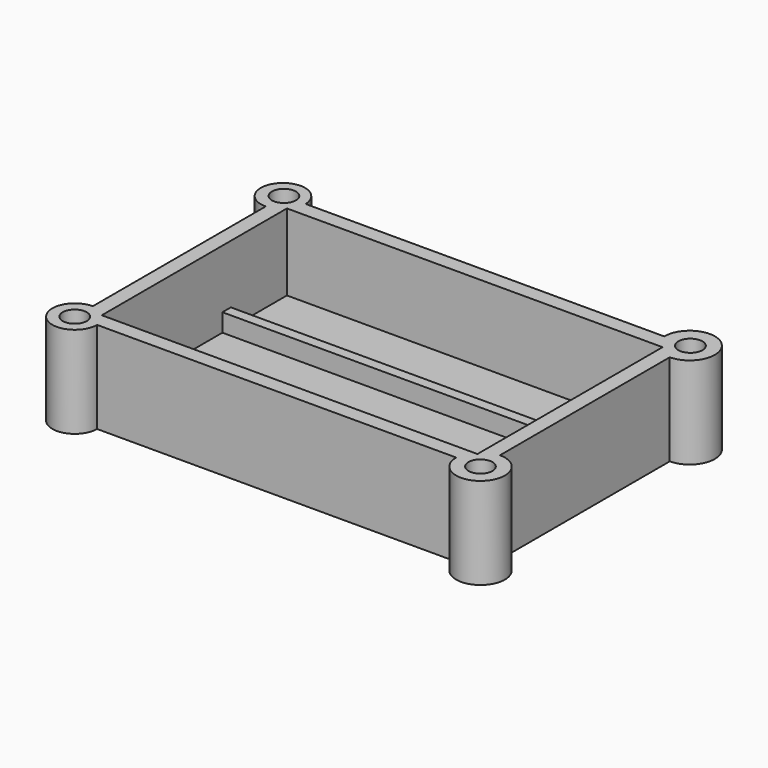
from build123d import *

# Parameters (mm, degrees)
F0_W     = 50
F0_H     = 1.4
F0_H_2   = 9.33334
F0_H_3   = 9.33333
F0_W_2   = 2
F1_DEPTH = 2
F2_DEPTH = 12.2
F3_DEPTH = 4.4


with BuildPart() as f1:
    # F0 (on Top) → F1 (new body)
    with BuildSketch(Plane.XY):
        with BuildLine():
            ThreePointArc((21.8201372772, -22.06666), (27.3605822843, -24.3541997855), (25.0540951786, -18.8216157258))
            Line((25.0540951786, -18.8216157258), (25.0540951786, -20.06666))
            Line((25.0540951786, -20.06666), (25.0540951786, -20.46666))
            ThreePointArc((25.0540951786, -20.46666), (26.1854660285, -20.9352891501), (26.6540951786, -22.06666))
            ThreePointArc((26.6540951786, -22.06666), (25.0540951786, -23.66666), (23.4540951786, -22.06666))
            Line((23.4540951786, -22.06666), (23.0540951786, -22.06666))
            Line((23.0540951786, -22.06666), (21.8201372772, -22.06666))
        make_face()
        with Locations((-1.9459048214, 0.7)):
            Rectangle(F0_W, F0_H)
        with BuildLine():
            Line((-26.9459048214, 12.73334), (-27.3459048214, 12.73334))
            ThreePointArc((-27.3459048214, 12.73334), (-27.8145339715, 11.6019691501), (-28.9459048214, 11.13334))
            Line((-28.9459048214, 11.13334), (-28.9459048214, 10.73334))
            Line((-28.9459048214, 10.73334), (-26.9459048214, 10.73334))
            Line((-26.9459048214, 10.73334), (-26.9459048214, 12.73334))
        make_face()
        with BuildLine():
            Line((-26.9459048214, -22.06666), (-26.9459048214, -20.06666))
            Line((-26.9459048214, -20.06666), (-28.9459048214, -20.06666))
            Line((-28.9459048214, -20.06666), (-28.9459048214, -20.46666))
            ThreePointArc((-28.9459048214, -20.46666), (-27.8145339715, -20.9352891501), (-27.3459048214, -22.06666))
            Line((-27.3459048214, -22.06666), (-26.9459048214, -22.06666))
        make_face()
        with BuildLine():
            Line((23.0540951786, 12.73334), (23.0540951786, 10.73334))
            Line((23.0540951786, 10.73334), (25.0540951786, 10.73334))
            Line((25.0540951786, 10.73334), (25.0540951786, 11.1939641141))
            ThreePointArc((25.0540951786, 11.1939641141), (23.9822411075, 11.6614859288), (23.5147192927, 12.73334))
            Line((23.5147192927, 12.73334), (23.0540951786, 12.73334))
        make_face()
        with Locations((-1.9459048214, 6.06667)):
            Rectangle(F0_W, F0_H_2)
        Polygon((-26.9459048214, 10.73334), (-28.9459048214, 10.73334), (-28.9459048214, 9.7067784518), (-28.9459048214, 1.4), (-26.9459048214, 1.4), align=None)
        with Locations((-1.9459048214, -4.666665)):
            Rectangle(F0_W, F0_H_3)
        with BuildLine():
            ThreePointArc((25.0540951786, 9.4220731407), (27.3739572404, 15.169460212), (21.67487517, 12.73334))
            Line((21.67487517, 12.73334), (23.0540951786, 12.73334))
            Line((23.0540951786, 12.73334), (23.5147192927, 12.73334))
            ThreePointArc((23.5147192927, 12.73334), (25.0838484178, 14.3925799209), (26.7136119574, 12.7928567787))
            ThreePointArc((26.7136119574, 12.7928567787), (26.2237410386, 11.6406356962), (25.0540951786, 11.1939641141))
            Line((25.0540951786, 11.1939641141), (25.0540951786, 10.73334))
            Line((25.0540951786, 10.73334), (25.0540951786, 9.4220731407))
        make_face()
        with Locations((24.0540951786, -10.03333)):
            Rectangle(F0_W_2, F0_H)
        with BuildLine():
            ThreePointArc((-28.9459048214, 11.13334), (-30.0772756713, 13.8647108499), (-27.3459048214, 12.73334))
            Line((-27.3459048214, 12.73334), (-26.9459048214, 12.73334))
            Line((-26.9459048214, 12.73334), (-26.0620750487, 12.73334))
            ThreePointArc((-26.0620750487, 12.73334), (-31.1388180647, 14.6834699023), (-28.9459048214, 9.7067784518))
            Line((-28.9459048214, 9.7067784518), (-28.9459048214, 10.73334))
            Line((-28.9459048214, 10.73334), (-28.9459048214, 11.13334))
        make_face()
        with BuildLine():
            Line((-28.9459048214, -20.06666), (-28.9459048214, -19.0631560981))
            ThreePointArc((-28.9459048214, -19.0631560981), (-31.0781165452, -24.1453706629), (-25.9737856686, -22.06666))
            Line((-25.9737856686, -22.06666), (-26.9459048214, -22.06666))
            Line((-26.9459048214, -22.06666), (-27.3459048214, -22.06666))
            ThreePointArc((-27.3459048214, -22.06666), (-30.0772756713, -23.1980308499), (-28.9459048214, -20.46666))
            Line((-28.9459048214, -20.46666), (-28.9459048214, -20.06666))
        make_face()
        Polygon((-26.0620750487, 12.73334), (-26.9459048214, 12.73334), (-26.9459048214, 10.73334), (23.0540951786, 10.73334), (23.0540951786, 12.73334), (21.67487517, 12.73334), align=None)
        Polygon((23.0540951786, -20.06666), (-26.9459048214, -20.06666), (-26.9459048214, -22.06666), (-25.9737856686, -22.06666), (21.8201372772, -22.06666), (23.0540951786, -22.06666), align=None)
        with Locations((-27.9459048214, 0.7)):
            Rectangle(F0_W_2, F0_H)
        with Locations((24.0540951786, 0.7)):
            Rectangle(F0_W_2, F0_H)
        with Locations((-27.9459048214, -4.666665)):
            Rectangle(F0_W_2, F0_H_3)
        with Locations((24.0540951786, -4.666665)):
            Rectangle(F0_W_2, F0_H_3)
        with Locations((-27.9459048214, -10.03333)):
            Rectangle(F0_W_2, F0_H)
        with Locations((-1.9459048214, -15.399995)):
            Rectangle(F0_W, F0_H_3)
        with BuildLine():
            Line((25.0540951786, -20.06666), (23.0540951786, -20.06666))
            Line((23.0540951786, -20.06666), (23.0540951786, -22.06666))
            Line((23.0540951786, -22.06666), (23.4540951786, -22.06666))
            ThreePointArc((23.4540951786, -22.06666), (23.9227243287, -20.9352891501), (25.0540951786, -20.46666))
            Line((25.0540951786, -20.46666), (25.0540951786, -20.06666))
        make_face()
        Polygon((-26.9459048214, -20.06666), (-26.9459048214, -10.73333), (-28.9459048214, -10.73333), (-28.9459048214, -19.0631560981), (-28.9459048214, -20.06666), align=None)
        Polygon((25.0540951786, 10.73334), (23.0540951786, 10.73334), (23.0540951786, 1.4), (25.0540951786, 1.4), (25.0540951786, 9.4220731407), align=None)
        with Locations((-1.9459048214, -10.03333)):
            Rectangle(F0_W, F0_H)
        Polygon((25.0540951786, -10.73333), (23.0540951786, -10.73333), (23.0540951786, -20.06666), (25.0540951786, -20.06666), (25.0540951786, -18.8216157258), align=None)
    extrude(amount=F1_DEPTH)

    # F0 (on Top) → F2 (join)
    with BuildSketch(Plane.XY):
        Polygon((-26.0620750487, 12.73334), (-26.9459048214, 12.73334), (-26.9459048214, 10.73334), (23.0540951786, 10.73334), (23.0540951786, 12.73334), (21.67487517, 12.73334), align=None)
        Polygon((-26.9459048214, 10.73334), (-28.9459048214, 10.73334), (-28.9459048214, 9.7067784518), (-28.9459048214, 1.4), (-26.9459048214, 1.4), align=None)
        with Locations((-27.9459048214, -4.666665)):
            Rectangle(F0_W_2, F0_H_3)
        Polygon((-26.9459048214, -20.06666), (-26.9459048214, -10.73333), (-28.9459048214, -10.73333), (-28.9459048214, -19.0631560981), (-28.9459048214, -20.06666), align=None)
        Polygon((23.0540951786, -20.06666), (-26.9459048214, -20.06666), (-26.9459048214, -22.06666), (-25.9737856686, -22.06666), (21.8201372772, -22.06666), (23.0540951786, -22.06666), align=None)
        Polygon((25.0540951786, -10.73333), (23.0540951786, -10.73333), (23.0540951786, -20.06666), (25.0540951786, -20.06666), (25.0540951786, -18.8216157258), align=None)
        with Locations((24.0540951786, -4.666665)):
            Rectangle(F0_W_2, F0_H_3)
        with Locations((24.0540951786, -10.03333)):
            Rectangle(F0_W_2, F0_H)
        with Locations((-27.9459048214, -10.03333)):
            Rectangle(F0_W_2, F0_H)
        Polygon((25.0540951786, 10.73334), (23.0540951786, 10.73334), (23.0540951786, 1.4), (25.0540951786, 1.4), (25.0540951786, 9.4220731407), align=None)
        with Locations((24.0540951786, 0.7)):
            Rectangle(F0_W_2, F0_H)
        with Locations((-27.9459048214, 0.7)):
            Rectangle(F0_W_2, F0_H)
        with BuildLine():
            ThreePointArc((25.0540951786, 9.4220731407), (27.3739572404, 15.169460212), (21.67487517, 12.73334))
            Line((21.67487517, 12.73334), (23.0540951786, 12.73334))
            Line((23.0540951786, 12.73334), (23.5147192927, 12.73334))
            ThreePointArc((23.5147192927, 12.73334), (25.0838484178, 14.3925799209), (26.7136119574, 12.7928567787))
            ThreePointArc((26.7136119574, 12.7928567787), (26.2237410386, 11.6406356962), (25.0540951786, 11.1939641141))
            Line((25.0540951786, 11.1939641141), (25.0540951786, 10.73334))
            Line((25.0540951786, 10.73334), (25.0540951786, 9.4220731407))
        make_face()
        with BuildLine():
            ThreePointArc((21.8201372772, -22.06666), (27.3605822843, -24.3541997855), (25.0540951786, -18.8216157258))
            Line((25.0540951786, -18.8216157258), (25.0540951786, -20.06666))
            Line((25.0540951786, -20.06666), (25.0540951786, -20.46666))
            ThreePointArc((25.0540951786, -20.46666), (26.1854660285, -20.9352891501), (26.6540951786, -22.06666))
            ThreePointArc((26.6540951786, -22.06666), (25.0540951786, -23.66666), (23.4540951786, -22.06666))
            Line((23.4540951786, -22.06666), (23.0540951786, -22.06666))
            Line((23.0540951786, -22.06666), (21.8201372772, -22.06666))
        make_face()
        with BuildLine():
            Line((25.0540951786, -20.06666), (23.0540951786, -20.06666))
            Line((23.0540951786, -20.06666), (23.0540951786, -22.06666))
            Line((23.0540951786, -22.06666), (23.4540951786, -22.06666))
            ThreePointArc((23.4540951786, -22.06666), (23.9227243287, -20.9352891501), (25.0540951786, -20.46666))
            Line((25.0540951786, -20.46666), (25.0540951786, -20.06666))
        make_face()
        with BuildLine():
            Line((23.0540951786, 12.73334), (23.0540951786, 10.73334))
            Line((23.0540951786, 10.73334), (25.0540951786, 10.73334))
            Line((25.0540951786, 10.73334), (25.0540951786, 11.1939641141))
            ThreePointArc((25.0540951786, 11.1939641141), (23.9822411075, 11.6614859288), (23.5147192927, 12.73334))
            Line((23.5147192927, 12.73334), (23.0540951786, 12.73334))
        make_face()
        with BuildLine():
            Line((-26.9459048214, -22.06666), (-26.9459048214, -20.06666))
            Line((-26.9459048214, -20.06666), (-28.9459048214, -20.06666))
            Line((-28.9459048214, -20.06666), (-28.9459048214, -20.46666))
            ThreePointArc((-28.9459048214, -20.46666), (-27.8145339715, -20.9352891501), (-27.3459048214, -22.06666))
            Line((-27.3459048214, -22.06666), (-26.9459048214, -22.06666))
        make_face()
        with BuildLine():
            Line((-28.9459048214, -20.06666), (-28.9459048214, -19.0631560981))
            ThreePointArc((-28.9459048214, -19.0631560981), (-31.0781165452, -24.1453706629), (-25.9737856686, -22.06666))
            Line((-25.9737856686, -22.06666), (-26.9459048214, -22.06666))
            Line((-26.9459048214, -22.06666), (-27.3459048214, -22.06666))
            ThreePointArc((-27.3459048214, -22.06666), (-30.0772756713, -23.1980308499), (-28.9459048214, -20.46666))
            Line((-28.9459048214, -20.46666), (-28.9459048214, -20.06666))
        make_face()
        with BuildLine():
            ThreePointArc((-28.9459048214, 11.13334), (-30.0772756713, 13.8647108499), (-27.3459048214, 12.73334))
            Line((-27.3459048214, 12.73334), (-26.9459048214, 12.73334))
            Line((-26.9459048214, 12.73334), (-26.0620750487, 12.73334))
            ThreePointArc((-26.0620750487, 12.73334), (-31.1388180647, 14.6834699023), (-28.9459048214, 9.7067784518))
            Line((-28.9459048214, 9.7067784518), (-28.9459048214, 10.73334))
            Line((-28.9459048214, 10.73334), (-28.9459048214, 11.13334))
        make_face()
        with BuildLine():
            Line((-26.9459048214, 12.73334), (-27.3459048214, 12.73334))
            ThreePointArc((-27.3459048214, 12.73334), (-27.8145339715, 11.6019691501), (-28.9459048214, 11.13334))
            Line((-28.9459048214, 11.13334), (-28.9459048214, 10.73334))
            Line((-28.9459048214, 10.73334), (-26.9459048214, 10.73334))
            Line((-26.9459048214, 10.73334), (-26.9459048214, 12.73334))
        make_face()
    extrude(amount=F2_DEPTH)

    # F0 (on Top) → F3 (join)
    with BuildSketch(Plane.XY):
        with Locations((-1.9459048214, 0.7)):
            Rectangle(F0_W, F0_H)
        with Locations((-1.9459048214, -10.03333)):
            Rectangle(F0_W, F0_H)
    extrude(amount=F3_DEPTH)


solid = f1.part
